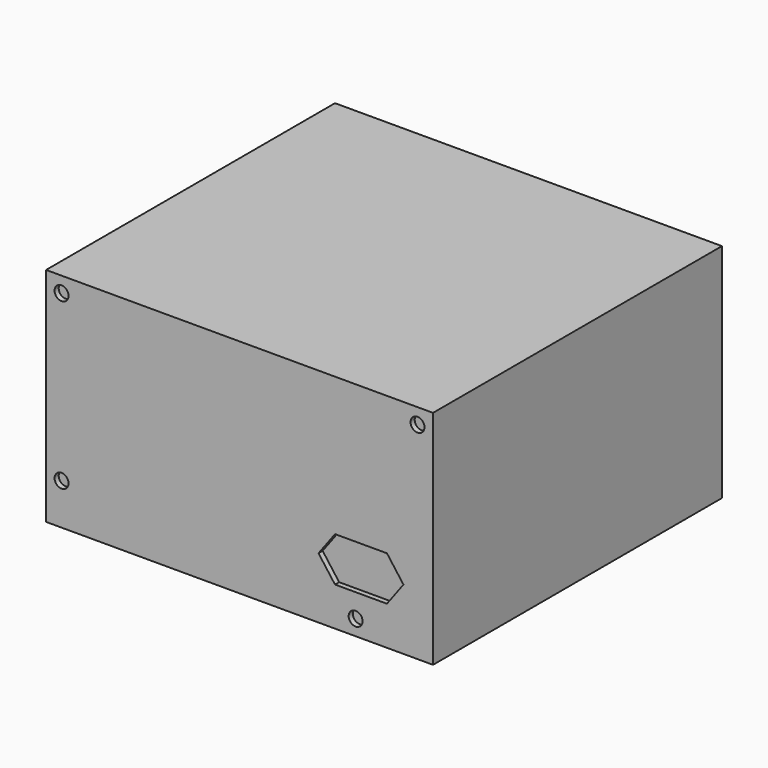
from build123d import *

# Parameters (mm, degrees)
F0_W     = 150
F0_H     = 86
F0_R     = 2.697357
F1_DEPTH = 140
F2_DEPTH = 138


with BuildPart() as f1:
    # F0 (on Front) → F1 (new body)
    with BuildSketch(Plane.XZ):
        with Locations((13.86537, -1.962941)):
            Rectangle(F0_W, F0_H)
        with Locations((-55.13463, -28.962941)):
            Circle(F0_R, mode=Mode.SUBTRACT)
        with Locations((58.86537, -38.962941)):
            Circle(F0_R, mode=Mode.SUBTRACT)
        Polygon((71.009835, -29.916703), (50.875956, -29.916703), (44.482663, -21.30399), (50.875956, -12.691278), (71.009835, -12.691278), (77.403128, -21.30399), align=None, mode=Mode.SUBTRACT)
        with Locations((-55.13463, 35.037059)):
            Circle(F0_R, mode=Mode.SUBTRACT)
        with Locations((82.86537, 35.037059)):
            Circle(F0_R, mode=Mode.SUBTRACT)
    extrude(amount=F1_DEPTH)

    # F0 (on Front) → F2 (join)
    with BuildSketch(Plane.XZ):
        with Locations((-55.13463, 35.037059)):
            Circle(F0_R)
        with Locations((-55.13463, -28.962941)):
            Circle(F0_R)
        with Locations((58.86537, -38.962941)):
            Circle(F0_R)
        Polygon((44.482663, -21.30399), (50.875956, -29.916703), (71.009835, -29.916703), (77.403128, -21.30399), (71.009835, -12.691278), (50.875956, -12.691278), align=None)
        with Locations((82.86537, 35.037059)):
            Circle(F0_R)
    extrude(amount=F2_DEPTH)


solid = f1.part
